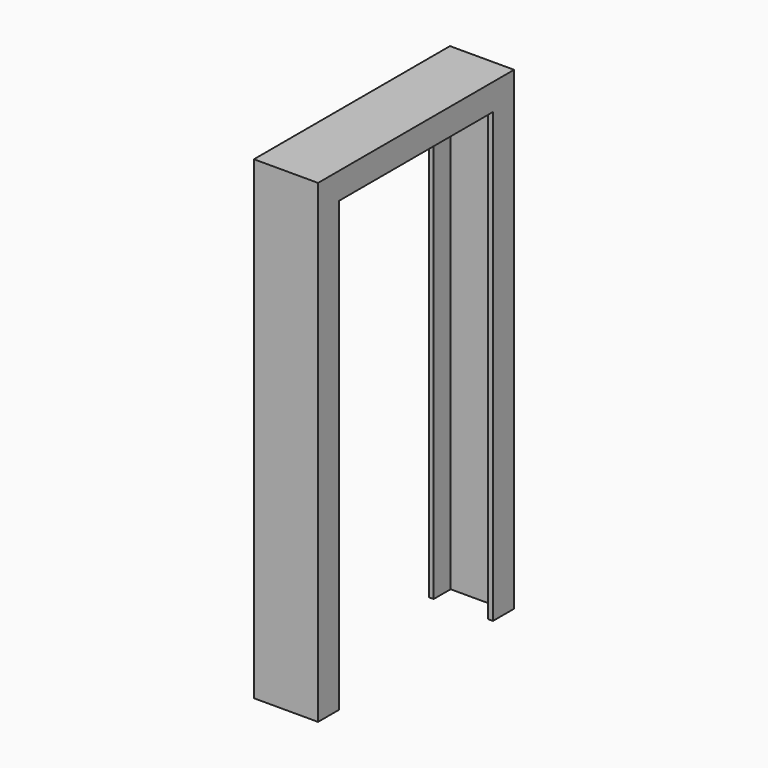
from build123d import *


with BuildPart() as f2:
    # F2: sweep along a path in F1
    with BuildLine(Plane.YZ) as f2_path:
        Line((0, 0), (0, 609.6))
        Line((0, 609.6), (-304.8, 609.6))
        Line((-304.8, 609.6), (-304.8, 0))
    # F0 (on Top) → F2 (sweep)
    with BuildSketch(Plane.XY):
        Polygon((41.6404120624, 6.7475703545), (0, 6.7475703545), (-41.6404120624, 6.7475703545), (-41.6404120624, -27.5800954551), (-35.3892557323, -27.5800954551), (-35.3892557323, 0), (0, 0), (35.3892557323, 0), (35.3892557323, -27.5800954551), (41.6404120624, -27.5800954551), align=None)
    sweep(path=f2_path.line, transition=Transition.RIGHT)


solid = f2.part
